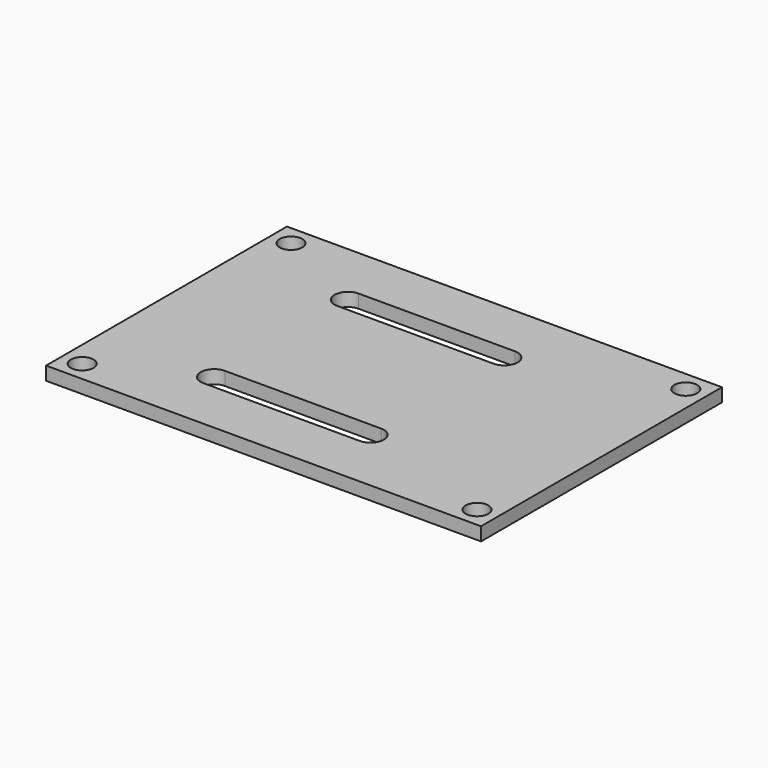
from build123d import *

# Parameters (mm, degrees)
SKETCH_W  = 65
SKETCH_H  = 45
SKETCH_R  = 1.7
PAD_DEPTH = 2


with BuildPart() as part:
    # Sketch → Pad (new body)
    with BuildSketch(Plane.XY):
        with Locations((32.5, 22.5)):
            Rectangle(SKETCH_W, SKETCH_H)
        with Locations((3, 42)):
            Circle(SKETCH_R, mode=Mode.SUBTRACT)
        with Locations((62, 42)):
            Circle(SKETCH_R, mode=Mode.SUBTRACT)
        with Locations((3, 3)):
            Circle(SKETCH_R, mode=Mode.SUBTRACT)
        with Locations((62, 3)):
            Circle(SKETCH_R, mode=Mode.SUBTRACT)
        with BuildLine():
            ThreePointArc((17.118392, 37), (15.118392, 35), (17.118392, 33))
            Line((17.118392, 33), (40.47904, 33))
            ThreePointArc((40.47904, 33), (42.47904, 35), (40.47904, 37))
            Line((17.118392, 37), (40.47904, 37))
        make_face(mode=Mode.SUBTRACT)
        with BuildLine():
            ThreePointArc((17.118392, 12), (15.118392, 10), (17.118392, 8))
            Line((17.118392, 8), (40.47904, 8))
            ThreePointArc((40.47904, 8), (42.47904, 10), (40.47904, 12))
            Line((17.118392, 12), (40.47904, 12))
        make_face(mode=Mode.SUBTRACT)
    extrude(amount=PAD_DEPTH)


solid = part.part
